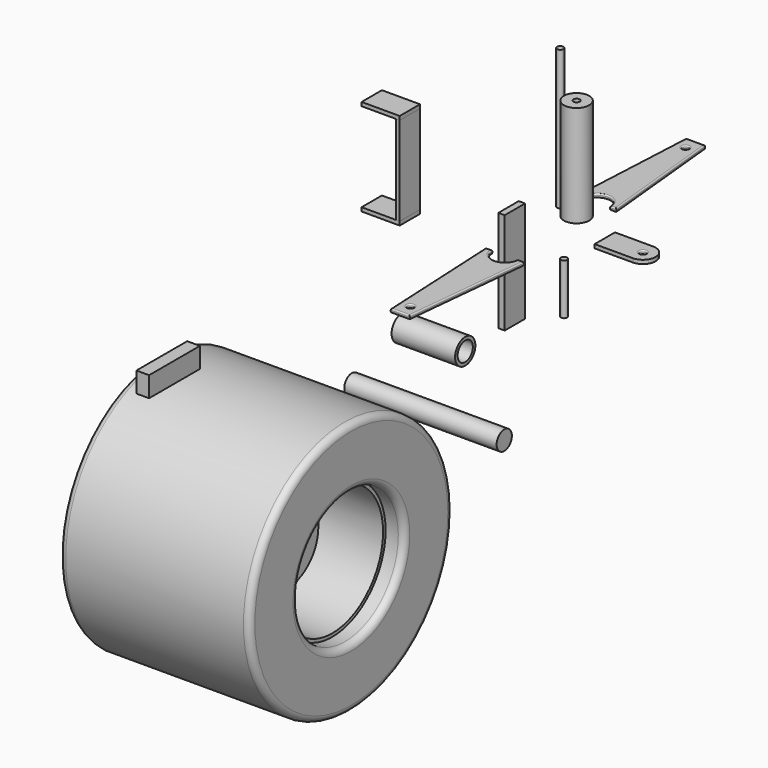
from build123d import *

# Parameters (mm, degrees)
F1_W      = 20
F1_H      = 80
F2_DEPTH  = 5
F3_R      = 2.5
F5_DEPTH  = 110
F4_R      = 10
F4_R_2    = 2.5
F6_DEPTH  = 80
F7_R      = 2.5
F8_DEPTH  = 3
F9_R      = 2.5
F10_DEPTH = 40
F0_R      = 2.5
F11_DEPTH = 3
F13_DEPTH = 20
F12_W     = 3
F12_H     = 70
F14_DEPTH = 20
F15_R     = 10
F15_R_2   = 7.5
F16_DEPTH = 50
F17_R     = 7.5
F19_DEPTH = 120
F18_R     = 30
F18_R_2   = 10
F20_DEPTH = 25
F18_R_3   = 50
F21_DEPTH = 10
F18_R_4   = 52.5
F22_DEPTH = 60
F18_R_5   = 100
F23_DEPTH = 75
F24_R     = 5
F25_R     = 1
F26_R     = 1
F27_W     = 50
F27_H     = 16
F28_DEPTH = 10


with BuildPart() as f2:
    # F1 (on Right) → F2 (new body)
    with BuildSketch(Plane.YZ):
        with Locations((10, -40)):
            Rectangle(F1_W, F1_H)
    extrude(amount=F2_DEPTH)


with BuildPart() as f5:
    # F3 (on Top) → F5 (new body)
    with BuildSketch(Plane.XY):
        with Locations((24.536826, 30.272193)):
            Circle(F3_R)
    extrude(amount=F5_DEPTH)


with BuildPart() as f6:
    # F4 (on Top) → F6 (new body)
    with BuildSketch(Plane.XY):
        with Locations((40.103454, 26.852934)):
            Circle(F4_R)
        with Locations((40.103454, 26.852934)):
            Circle(F4_R_2, mode=Mode.SUBTRACT)
    extrude(amount=F6_DEPTH)


with BuildPart() as f8:
    # F7 (on Top) → F8 (new body)
    with BuildSketch(Plane.XY):
        with BuildLine():
            ThreePointArc((51.547308, -45.428085), (41.547308, -55.428085), (31.547308, -45.428085))
            Line((31.547308, -45.428085), (26.547308, -45.428085))
            Line((26.547308, -45.428085), (31.547308, -145.428085))
            Line((31.547308, -145.428085), (46.547308, -145.428085))
            Line((46.547308, -145.428085), (56.547308, -45.428085))
            Line((56.547308, -45.428085), (51.547308, -45.428085))
        make_face()
        with Locations((39.047308, -135.428085)):
            Circle(F7_R, mode=Mode.SUBTRACT)
    extrude(amount=F8_DEPTH)

    # F26
    f26_edges = [f8.edges().sort_by_distance(p)[0] for p in [
        (41.547308, -55.428085, 3),
        (29.047308, -45.428085, 3),
        (29.047308, -95.428085, 3),
        (39.047308, -145.428085, 3),
        (51.547308, -95.428085, 3),
        (54.047308, -45.428085, 3),
        (36.547308, -135.428085, 3),
        (41.547308, -55.428085, 0),
        (29.047308, -45.428085, 0),
        (29.047308, -95.428085, 0),
        (39.047308, -145.428085, 0),
        (51.547308, -95.428085, 0),
        (54.047308, -45.428085, 0),
        (36.547308, -135.428085, 0),
    ]]
    fillet(f26_edges, radius=F26_R)


with BuildPart() as f10:
    # F9 (on Top) → F10 (new body)
    with BuildSketch(Plane.XY):
        with Locations((117.711827, -82.432188)):
            Circle(F9_R)
    extrude(amount=F10_DEPTH)


with BuildPart() as f11:
    # F0 (on Top) → F11 (new body)
    with BuildSketch(Plane.XY):
        with BuildLine():
            Line((105.835272, 20), (75.835272, 20))
            Line((75.835272, 20), (75.835272, 0))
            Line((75.835272, 0), (105.835272, 0))
            ThreePointArc((105.835272, 0), (115.835272, 10), (105.835272, 20))
        make_face()
        with Locations((105.835272, 10)):
            Circle(F0_R, mode=Mode.SUBTRACT)
    extrude(amount=F11_DEPTH)

    # F25
    f25_edges = [f11.edges().sort_by_distance(p)[0] for p in [
        (103.335272, 10, 3),
        (103.335272, 10, 0),
    ]]
    fillet(f25_edges, radius=F25_R)


with BuildPart() as f13:
    # F12 (on Front) → F13 (new body)
    with BuildSketch(Plane.XZ):
        Polygon((-64.721073, 52.217716), (-61.721073, 52.217716), (-61.721073, 55.217716), (-91.721073, 55.217716), (-91.721073, 52.217716), align=None)
        Polygon((-91.721073, -17.782284), (-91.721073, -20.782284), (-61.721073, -20.782284), (-61.721073, -17.782284), (-64.721073, -17.782284), align=None)
    extrude(amount=F13_DEPTH)


with BuildPart() as f14:
    # F12 (on Front) → F14 (new body)
    with BuildSketch(Plane.XZ):
        with Locations((-63.221073, 17.217716)):
            Rectangle(F12_W, F12_H)
    extrude(amount=F14_DEPTH)


with BuildPart() as f16:
    # F15 (on Right) → F16 (new body)
    with BuildSketch(Plane.YZ):
        with Locations((-95.13443, -41.040562)):
            Circle(F15_R)
        with Locations((-95.13443, -41.040562)):
            Circle(F15_R_2, mode=Mode.SUBTRACT)
    extrude(amount=F16_DEPTH)


with BuildPart() as f19:
    # F17 (on Right) → F19 (new body)
    with BuildSketch(Plane.YZ):
        with Locations((-144.23874, -59.977651)):
            Circle(F17_R)
    extrude(amount=F19_DEPTH)


with BuildPart() as f20:
    # F18 (on Right) → F20 (new body, symmetric)
    with BuildSketch(Plane.YZ):
        with Locations((-238.513842, -125.080019)):
            Circle(F18_R)
        with Locations((-238.513842, -125.080019)):
            Circle(F18_R_2, mode=Mode.SUBTRACT)
    extrude(amount=F20_DEPTH, both=True)

    # F18 (on Right) → F21 (join, symmetric)
    with BuildSketch(Plane.YZ):
        with Locations((-238.513842, -125.080019)):
            Circle(F18_R_3)
        with Locations((-238.513842, -125.080019)):
            Circle(F18_R, mode=Mode.SUBTRACT)
    extrude(amount=F21_DEPTH, both=True)

    # F18 (on Right) → F22 (join, symmetric)
    with BuildSketch(Plane.YZ):
        with Locations((-238.513842, -125.080019)):
            Circle(F18_R_4)
        with Locations((-238.513842, -125.080019)):
            Circle(F18_R_3, mode=Mode.SUBTRACT)
    extrude(amount=F22_DEPTH, both=True)

    # F18 (on Right) → F23 (join, symmetric)
    with BuildSketch(Plane.YZ):
        with Locations((-238.513842, -125.080019)):
            Circle(F18_R_5)
        with Locations((-238.513842, -125.080019)):
            Circle(F18_R_4, mode=Mode.SUBTRACT)
    extrude(amount=F23_DEPTH, both=True)

    # F24
    f24_edges = [f20.edges().sort_by_distance(p)[0] for p in [
        (75, -338.513842, -125.080019),
        (75, -291.013842, -125.080019),
        (-75, -338.513842, -125.080019),
        (0, -138.513842, -125.080019),
        (-75, -291.013842, -125.080019),
    ]]
    fillet(f24_edges, radius=F24_R)


with BuildPart() as f28:
    # F27 (on Right) → F28 (new body)
    with BuildSketch(Plane.YZ):
        with Locations((-331.359738, 27.545035)):
            Rectangle(F27_W, F27_H)
    extrude(amount=F28_DEPTH)


with BuildPart() as f29_1:
    # F29: instance of F8
    add(f8.part.mirror(Plane.XZ))


solid = Compound([f2.part, f5.part, f6.part, f8.part, f10.part, f11.part, f13.part, f14.part, f16.part, f19.part, f20.part, f28.part, f29_1.part])
